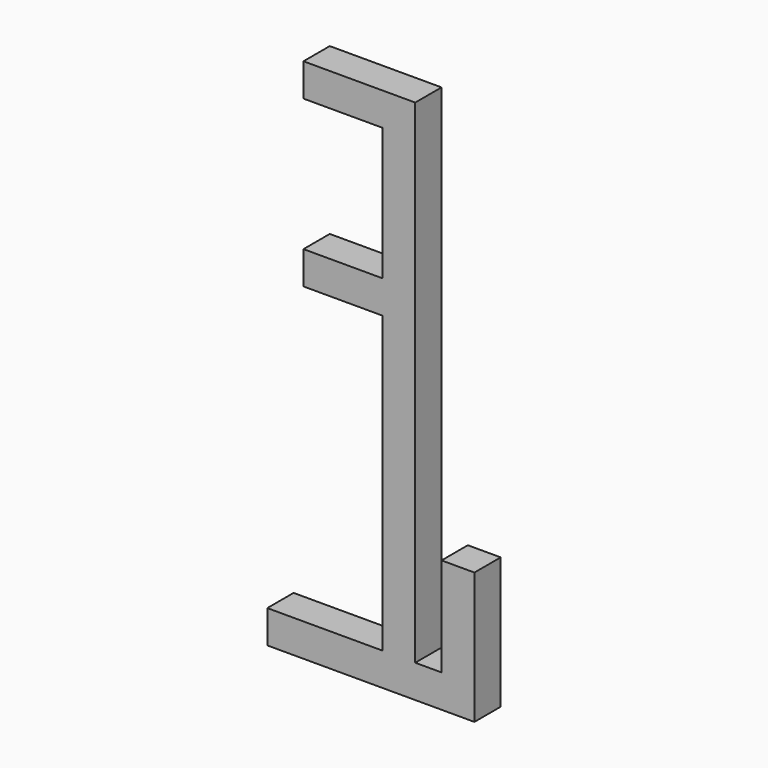
from build123d import *

# Parameters (mm, degrees)
F0_W     = 44.45
F0_H     = 12.7
F0_W_2   = 12.7
F0_H_2   = 38.1
F0_W_3   = 30.48
F0_H_3   = 51.181
F1_DEPTH = 6.35


with BuildPart() as f1:
    # F0 (on Front) → F1 (new body, symmetric)
    with BuildSketch(Plane.XZ):
        Polygon((-6.35, -101.6), (6.35, -101.6), (6.35, -88.9), (6.35, 25.019), (-6.35, 25.019), (-6.35, -88.9), align=None)
        Polygon((6.35, -88.9), (6.35, -101.6), (29.21, -101.6), (29.21, -88.9), (16.51, -88.9), align=None)
        with Locations((-28.575, -95.25)):
            Rectangle(F0_W, F0_H)
        with Locations((0, 31.369)):
            Rectangle(F0_W_2, F0_H)
        with Locations((22.86, -69.85)):
            Rectangle(F0_W_2, F0_H_2)
        with Locations((-21.59, 31.369)):
            Rectangle(F0_W_3, F0_H)
        with Locations((0, 63.3095)):
            Rectangle(F0_W_2, F0_H_3)
        with Locations((0, 95.25)):
            Rectangle(F0_W_2, F0_H)
        with Locations((-21.59, 95.25)):
            Rectangle(F0_W_3, F0_H)
        with Locations((-21.59, 95.25)):
            Rectangle(F0_W_3, F0_H)
    extrude(amount=F1_DEPTH, both=True)


solid = f1.part
